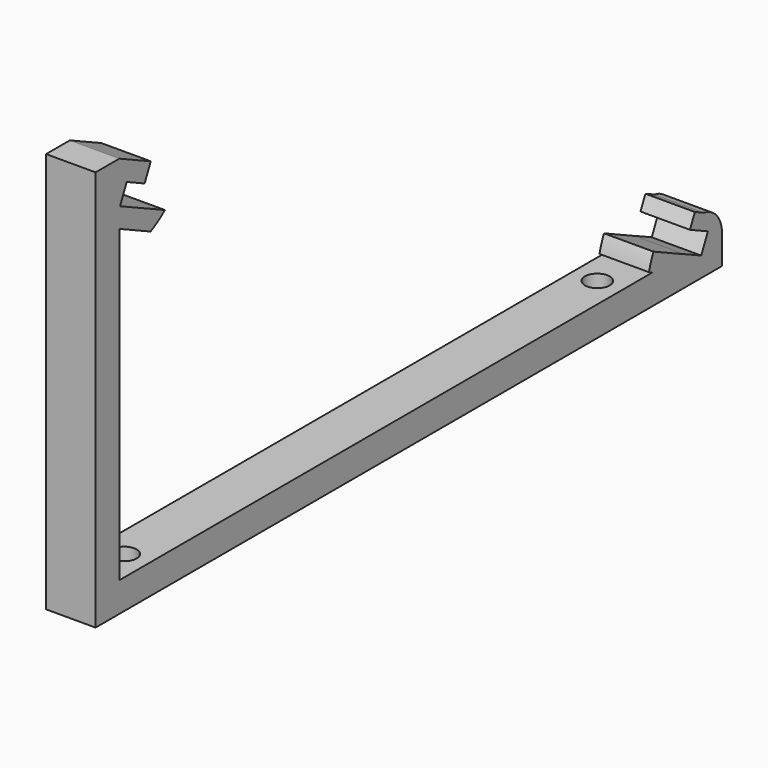
from build123d import *

# Parameters (mm, degrees)
CYLINDER038_R          = 2.5
CYLINDER038_DEPTH      = 14
CYLINDER037_R          = 2.5
CYLINDER037_DEPTH      = 14
BOX041_W               = 134
BOX041_H               = 152
BOX041_DEPTH           = 11
BOX041_ROLL_ANGLE      = 25.000043
BOX041_PLACEMENT_ANGLE = 180
BOX042_W               = 10
BOX042_H               = 10
BOX042_DEPTH           = 10
BOX037_W               = 140
BOX037_H               = 162
BOX037_DEPTH           = 4
BOX037_ROLL_ANGLE      = 25.000043
BOX037_PLACEMENT_ANGLE = 180
CYLINDER036_W          = 5.4
CYLINDER036_H          = 10
CYLINDER036_ANGLE      = 90
BOX040_W               = 10
BOX040_H               = 6
BOX040_DEPTH           = 25
BOX040_PLACEMENT_ANGLE = 65
BOX039_W               = 10
BOX039_H               = 6
BOX039_DEPTH           = 31.23
BOX036_W               = 10
BOX036_H               = 2
BOX036_DEPTH           = 165
BOX034_W               = 140
BOX034_H               = 162
BOX034_DEPTH           = 4
BOX034_ROLL_ANGLE      = 25.000043
BOX034_PLACEMENT_ANGLE = 180
CYLINDER033_W          = 18
CYLINDER033_H          = 10
CYLINDER033_ANGLE      = 65
CYLINDER032_W          = 18
CYLINDER032_H          = 10
CYLINDER032_ANGLE      = 65
BOX035_W               = 10
BOX035_H               = 6
BOX035_DEPTH           = 81
BOX038_W               = 10
BOX038_H               = 6
BOX038_DEPTH           = 20
CYLINDER035_W          = 18
CYLINDER035_H          = 10
CYLINDER035_ANGLE      = 25
CYLINDER034_W          = 18
CYLINDER034_H          = 10
CYLINDER034_ANGLE      = 25
BOX044_W               = 10
BOX044_H               = 109
BOX044_DEPTH           = 4


with BuildPart() as m4s010:
    # Cylinder038 → Cylinder038 (new body)
    with BuildSketch(Plane(origin=(105, 264, 0), x_dir=(1, 0, 0), z_dir=(0, 0, 1))):
        Circle(CYLINDER038_R)
    extrude(amount=CYLINDER038_DEPTH)


with BuildPart() as fusion018:
    # Cylinder037 → Cylinder037 (new body)
    with BuildSketch(Plane(origin=(105, 144.5, 0), x_dir=(1, 0, 0), z_dir=(0, 0, 1))):
        Circle(CYLINDER037_R)
    extrude(amount=CYLINDER037_DEPTH)

    # Fusion018: union m4s010
    add(m4s010.part)


with BuildPart() as solar_panelcut001:
    # Box041 → Box041 (new body)
    with BuildSketch(Plane.XY):
        with Locations((67, 76)):
            Rectangle(BOX041_W, BOX041_H)
    extrude(amount=BOX041_DEPTH)


with BuildPart() as solar_panelcut001_1:
    # Box041 roll: moved
    add(solar_panelcut001.part.rotate(Axis((0, 0, 0), (1, 0, 0)), BOX041_ROLL_ANGLE))


with BuildPart() as solar_panelcut001_2:
    # Box041 placement: moved
    add(solar_panelcut001_1.part.moved(Location((175, 279.468463, 10.113095))).rotate(Axis((175, 279.468463, 10.113095), (0, 0, 1)), BOX041_PLACEMENT_ANGLE))


with BuildPart() as cube011:
    # Box042 → Box042 (new body)
    with BuildSketch(Plane(origin=(100, 289.23, 0), x_dir=(1, 0, 0), z_dir=(0, 0, 1))):
        with Locations((5, 5)):
            Rectangle(BOX042_W, BOX042_H)
    extrude(amount=BOX042_DEPTH)


with BuildPart() as solar_panel011:
    # Box037 → Box037 (new body)
    with BuildSketch(Plane.XY):
        with Locations((70, 81)):
            Rectangle(BOX037_W, BOX037_H)
    extrude(amount=BOX037_DEPTH)


with BuildPart() as solar_panel011_1:
    # Box037 roll: moved
    add(solar_panel011.part.rotate(Axis((0, 0, 0), (1, 0, 0)), BOX037_ROLL_ANGLE))


with BuildPart() as solar_panel011_2:
    # Box037 placement: moved
    add(solar_panel011_1.part.moved(Location((175, 284, 8))).rotate(Axis((175, 284, 8), (0, 0, 1)), BOX037_PLACEMENT_ANGLE))


with BuildPart() as cylinder036:
    # Cylinder036 → Cylinder036 (revolve)
    with BuildSketch(Plane(origin=(110, 283.83, 10), x_dir=(0, 0, 1), z_dir=(0, -1, 0))):
        with Locations((2.7, 5)):
            Rectangle(CYLINDER036_W, CYLINDER036_H)
    revolve(axis=Axis((110, 283.83, 10), (-1, 0, 0)), revolution_arc=CYLINDER036_ANGLE)


with BuildPart() as basesupport016:
    # Box040 → Box040 (new body)
    with BuildSketch(Plane.XY):
        with Locations((5, 3)):
            Rectangle(BOX040_W, BOX040_H)
    extrude(amount=BOX040_DEPTH)


with BuildPart() as basesupport016_1:
    # Box040 placement: moved
    add(basesupport016.part.moved(Location((100, 284.507102, 8.798097))).rotate(Axis((100, 284.507102, 8.798097), (1, 0, 0)), BOX040_PLACEMENT_ANGLE))


with BuildPart() as basesupport015:
    # Box039 → Box039 (new body)
    with BuildSketch(Plane(origin=(100, 258, 10), x_dir=(1, 0, 0), z_dir=(0, 1, 0))):
        with Locations((5, 3)):
            Rectangle(BOX039_W, BOX039_H)
    extrude(amount=BOX039_DEPTH)


with BuildPart() as basesupport010:
    # Box036 → Box036 (new body)
    with BuildSketch(Plane(origin=(100, 131, 6), x_dir=(1, 0, 0), z_dir=(0, 1, 0))):
        with Locations((5, 1)):
            Rectangle(BOX036_W, BOX036_H)
    extrude(amount=BOX036_DEPTH)


with BuildPart() as solar_panel010:
    # Box034 → Box034 (new body)
    with BuildSketch(Plane.XY):
        with Locations((70, 81)):
            Rectangle(BOX034_W, BOX034_H)
    extrude(amount=BOX034_DEPTH)


with BuildPart() as solar_panel010_1:
    # Box034 roll: moved
    add(solar_panel010.part.rotate(Axis((0, 0, 0), (1, 0, 0)), BOX034_ROLL_ANGLE))


with BuildPart() as solar_panel010_2:
    # Box034 placement: moved
    add(solar_panel010_1.part.moved(Location((175, 284, 8))).rotate(Axis((175, 284, 8), (0, 0, 1)), BOX034_PLACEMENT_ANGLE))


with BuildPart() as cylinder033:
    # Cylinder033 → Cylinder033 (revolve)
    with BuildSketch(Plane(origin=(101, 137, 72.5), x_dir=(0, 0, -1), z_dir=(0, -1, 0))):
        with Locations((9, 5)):
            Rectangle(CYLINDER033_W, CYLINDER033_H)
    revolve(axis=Axis((101, 137, 72.5), (1, 0, 0)), revolution_arc=CYLINDER033_ANGLE)


with BuildPart() as basesupport011:
    # Cylinder032 → Cylinder032 (revolve)
    with BuildSketch(Plane(origin=(101, 137, 85), x_dir=(0, 0, -1), z_dir=(0, -1, 0))):
        with Locations((9, 5)):
            Rectangle(CYLINDER032_W, CYLINDER032_H)
    revolve(axis=Axis((101, 137, 85), (1, 0, 0)), revolution_arc=CYLINDER032_ANGLE)

    # Cut032: cut Cylinder033
    add(cylinder033.part, mode=Mode.SUBTRACT)


with BuildPart() as basesupport011_1:
    # Cut032 placement: moved
    add(basesupport011.part.moved(Location((-1, 0, 0))))


with BuildPart() as basesupport012:
    # Box035 → Box035 (new body)
    with BuildSketch(Plane(origin=(100, 131, 4), x_dir=(1, 0, 0), z_dir=(0, 0, 1))):
        with Locations((5, 3)):
            Rectangle(BOX035_W, BOX035_H)
    extrude(amount=BOX035_DEPTH)

    # Fusion016: union baseSupport011
    add(basesupport011_1.part)

    # Cut033: cut solar Panel010
    add(solar_panel010_2.part, mode=Mode.SUBTRACT)


with BuildPart() as basesupport013:
    # Box038 → Box038 (new body)
    with BuildSketch(Plane(origin=(100, 131, 10), x_dir=(1, 0, 0), z_dir=(0, 1, 0))):
        with Locations((5, 3)):
            Rectangle(BOX038_W, BOX038_H)
    extrude(amount=BOX038_DEPTH)


with BuildPart() as cylinder035:
    # Cylinder035 → Cylinder035 (revolve)
    with BuildSketch(Plane(origin=(110, 280.25, 6), x_dir=(0, -1, 0), z_dir=(0, 0, -1))):
        with Locations((9, 5)):
            Rectangle(CYLINDER035_W, CYLINDER035_H)
    revolve(axis=Axis((110, 280.25, 6), (-1, 0, 0)), revolution_arc=CYLINDER035_ANGLE)


with BuildPart() as obj1:
    # Cylinder034 → Cylinder034 (revolve)
    with BuildSketch(Plane(origin=(110, 288.25, 6), x_dir=(0, -1, 0), z_dir=(0, 0, -1))):
        with Locations((9, 5)):
            Rectangle(CYLINDER034_W, CYLINDER034_H)
    revolve(axis=Axis((110, 288.25, 6), (-1, 0, 0)), revolution_arc=CYLINDER034_ANGLE)

    # Cut031: cut Cylinder035
    add(cylinder035.part, mode=Mode.SUBTRACT)

    # Fusion017: union Cylinder036, baseSupport016, baseSupport015, baseSupport010, baseSupport012, baseSupport013
    add(cylinder036.part)
    add(basesupport016_1.part)
    add(basesupport015.part)
    add(basesupport010.part)
    add(basesupport012.part)
    add(basesupport013.part)

    # Cut036: cut solar Panel011
    add(solar_panel011_2.part, mode=Mode.SUBTRACT)

    # Cut035: cut Cube011
    add(cube011.part, mode=Mode.SUBTRACT)

    # Cut034: cut solar PanelCut001
    add(solar_panelcut001_2.part, mode=Mode.SUBTRACT)

    # Cut037: cut Fusion018
    add(fusion018.part, mode=Mode.SUBTRACT)


with BuildPart() as obj1_1:
    # Cut037 placement: moved
    add(obj1.part.moved(Location((146, 0, 0))))


with BuildPart() as obj2:
    # Box044 → Box044 (new body)
    with BuildSketch(Plane(origin=(246, 150, 6), x_dir=(1, 0, 0), z_dir=(0, 0, 1))):
        with Locations((5, 54.5)):
            Rectangle(BOX044_W, BOX044_H)
    extrude(amount=BOX044_DEPTH)

    # Fusion030: union obj1
    add(obj1_1.part)


solid = obj2.part
